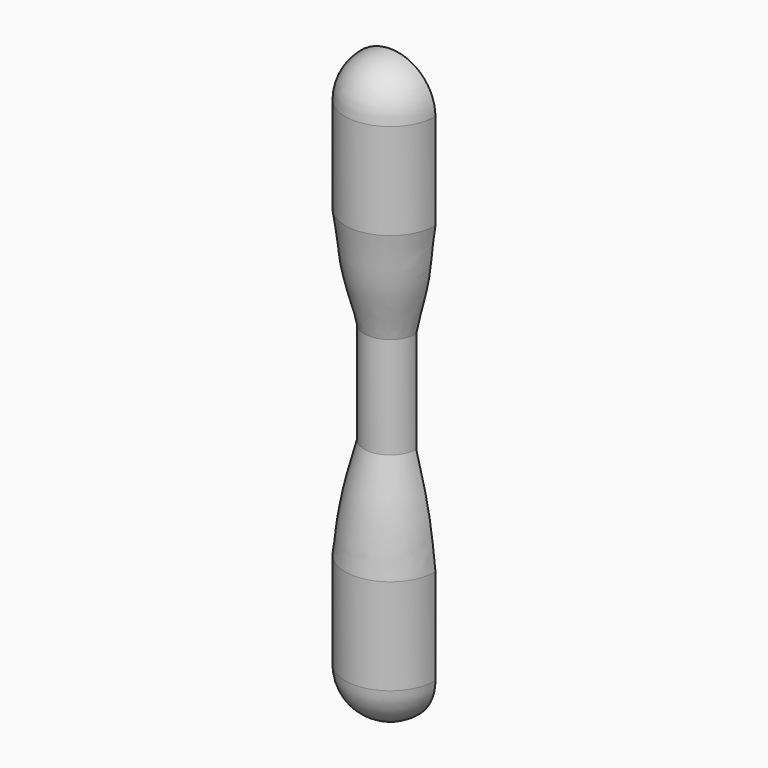
from build123d import *

# Parameters (mm, degrees)
F1_ANGLE = 180


with BuildPart() as f1:
    # F0 (on Front) → F1 (revolve)
    with BuildSketch(Plane.XZ):
        with BuildLine():
            Line((0, 6.25), (0, 0))
            ThreePointArc((0, 0), (1.414214, 0.585786), (2, 2))
            Line((2, 2), (2, 6.25))
            add(Edge.make_bspline(
                [(1.15, 10.75), (1.355042, 9.998154), (1.756439, 8.532208), (1.920674, 6.998058), (2, 6.25)],
                knots=[0, 0, 0, 0, 2.316247, 4.586159, 4.586159, 4.586159, 4.586159], degree=3))
            Line((1.15, 10.75), (1.15, 13))
            Line((1.15, 13), (1.15, 15.25))
            add(Edge.make_bspline(
                [(1.15, 15.25), (1.295118, 15.996123), (1.815875, 17.473412), (1.861732, 18.996422), (2, 19.75)],
                knots=[0, 0, 0, 0, 2.316247, 4.586159, 4.586159, 4.586159, 4.586159], degree=3))
            Line((2, 19.75), (2, 24))
            ThreePointArc((2, 24), (1.414214, 25.414214), (0, 26))
            Line((0, 26), (0, 24))
            Line((0, 24), (0, 19.75))
            Line((0, 19.75), (0, 17.5))
            Line((0, 17.5), (0, 15.25))
            Line((0, 15.25), (0, 13))
            Line((0, 13), (0, 10.75))
            Line((0, 10.75), (0, 8.5))
            Line((0, 8.5), (0, 6.25))
        make_face()
    revolve(axis=Axis((0, 0, 13), (0, 0, -1)), revolution_arc=F1_ANGLE)


solid = f1.part
